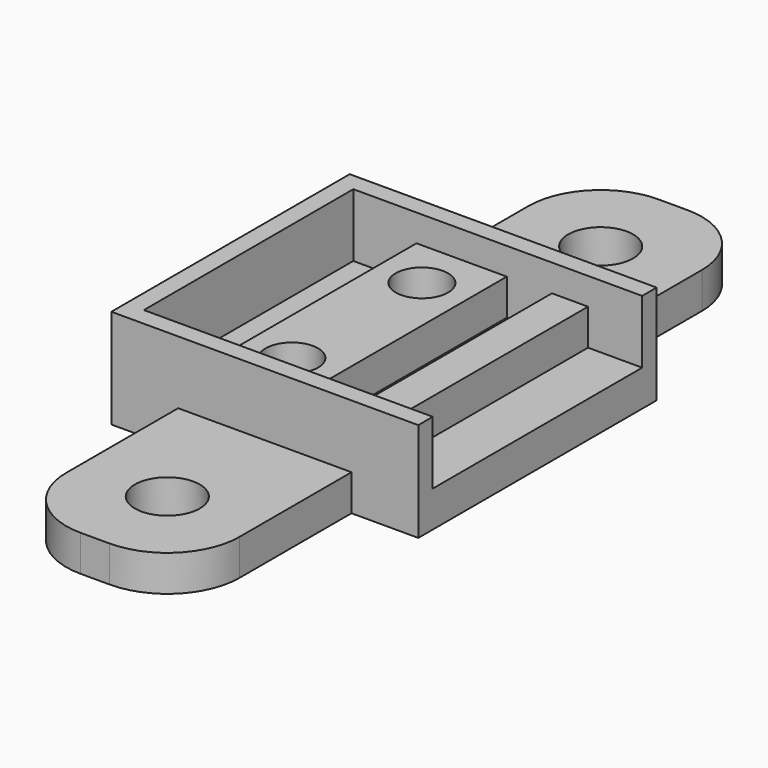
from build123d import *

# Parameters (mm, degrees)
CYLINDER_R        = 1.45
CYLINDER_DEPTH    = 20
ARRAY_Y_COUNT     = 2
ARRAY_Y_PITCH     = 9
BOX002_W          = 5
BOX002_H          = 14.5
BOX002_DEPTH      = 2
BOX003_W          = 2
BOX003_H          = 14.5
BOX003_DEPTH      = 2
CYLINDER001_R     = 1.8
CYLINDER001_DEPTH = 10
ARRAY002_Y_COUNT  = 2
ARRAY002_Y_PITCH  = 30
BOX004_W          = 9.6
BOX004_H          = 40
BOX004_DEPTH      = 2
FILLET_R          = 4
BOX001_W          = 16
BOX001_H          = 14.5
BOX001_DEPTH      = 3.5
BOX_W             = 17
BOX_H             = 16.5
BOX_DEPTH         = 5.5


with BuildPart() as hole_array:
    # Cylinder → Cylinder (new body)
    with BuildSketch(Plane(origin=(7, 3.75, 0), x_dir=(1, 0, 0), z_dir=(0, 0, 1))):
        Circle(CYLINDER_R)
    extrude(amount=CYLINDER_DEPTH)

    # Array Y: hole array ×2


with BuildPart() as hole_array_1:
    add(hole_array.part)
    with Locations(*[(0, i * ARRAY_Y_PITCH, 0) for i in range(1, ARRAY_Y_COUNT)]):
        add(hole_array.part)


with BuildPart() as hole_stand_cube:
    # Box002 → Box002 (new body)
    with BuildSketch(Plane(origin=(4.5, 1, 2), x_dir=(1, 0, 0), z_dir=(0, 0, 1))):
        with Locations((2.5, 7.25)):
            Rectangle(BOX002_W, BOX002_H)
    extrude(amount=BOX002_DEPTH)


with BuildPart() as obj1:
    # Box003 → Box003 (new body)
    with BuildSketch(Plane(origin=(12, 1, 2), x_dir=(1, 0, 0), z_dir=(0, 0, 1))):
        with Locations((1, 7.25)):
            Rectangle(BOX003_W, BOX003_H)
    extrude(amount=BOX003_DEPTH)


with BuildPart() as attach_hole_array:
    # Cylinder001 → Cylinder001 (new body)
    with BuildSketch(Plane(origin=(4.8, 5, 0), x_dir=(1, 0, 0), z_dir=(0, 0, 1))):
        Circle(CYLINDER001_R)
    extrude(amount=CYLINDER001_DEPTH)

    # Array002 Y: attach hole array ×2


with BuildPart() as attach_hole_array_1:
    add(attach_hole_array.part)
    with Locations(*[(0, i * ARRAY002_Y_PITCH, 0) for i in range(1, ARRAY002_Y_COUNT)]):
        add(attach_hole_array.part)


with BuildPart() as attach_plane:
    # Box004 → Box004 (new body)
    with BuildSketch(Plane.XY):
        with Locations((4.8, 20)):
            Rectangle(BOX004_W, BOX004_H)
    extrude(amount=BOX004_DEPTH)

    # Fillet
    fillet_edges = [attach_plane.edges().sort_by_distance(p)[0] for p in [
        (0, 0, 1),
        (0, 40, 1),
        (9.6, 0, 1),
        (9.6, 40, 1),
    ]]
    fillet(fillet_edges, radius=FILLET_R)

    # Cut002: cut attach hole array
    add(attach_hole_array_1.part, mode=Mode.SUBTRACT)


with BuildPart() as attach_plane_1:
    # Cut002 placement: moved
    add(attach_plane.part.moved(Location((3.7, -11.75, 0))))


with BuildPart() as bottom_cube_extract:
    # Box001 → Box001 (new body)
    with BuildSketch(Plane(origin=(1, 1, 2), x_dir=(1, 0, 0), z_dir=(0, 0, 1))):
        with Locations((8, 7.25)):
            Rectangle(BOX001_W, BOX001_H)
    extrude(amount=BOX001_DEPTH)


with BuildPart() as obj2:
    # Box → Box (new body)
    with BuildSketch(Plane.XY):
        with Locations((8.5, 8.25)):
            Rectangle(BOX_W, BOX_H)
    extrude(amount=BOX_DEPTH)

    # Cut: cut bottom cube extract
    add(bottom_cube_extract.part, mode=Mode.SUBTRACT)

    # Fusion: union hole stand cube, obj1, attach plane
    add(hole_stand_cube.part)
    add(obj1.part)
    add(attach_plane_1.part)

    # Cut001: cut hole array
    add(hole_array_1.part, mode=Mode.SUBTRACT)


solid = obj2.part
